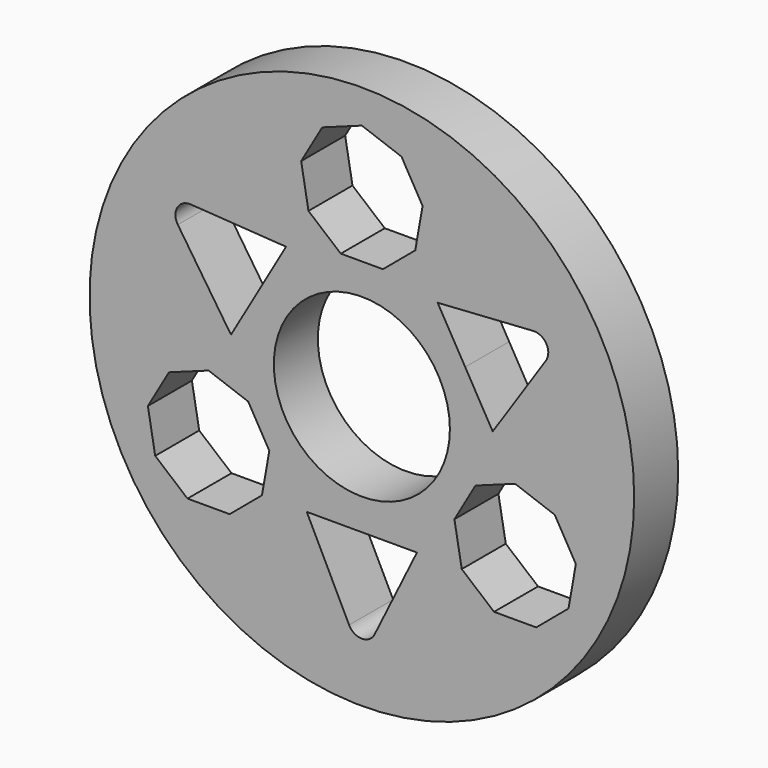
from build123d import *

# Parameters (mm, degrees)
F0_R     = 24.75
F0_R_2   = 8
F1_DEPTH = 2.5
F3_DEPTH = 5.001


with BuildPart() as f1:
    # F0 (on Front) → F1 (new body, symmetric)
    with BuildSketch(Plane.XZ):
        Circle(F0_R)
        Circle(F0_R_2, mode=Mode.SUBTRACT)
    extrude(amount=F1_DEPTH, both=True)

    # F2 (on face) → F3 (cut, through all)
    with BuildSketch(Plane.XZ.offset(2.5)):
        Polygon((-1.916116, 10.819963), (1.916116, 10.819963), (4.851777, 13.283275), (5.517237, 17.057287), (3.601121, 20.376098), (0, 21.686799), (-3.601121, 20.376098), (-5.517237, 17.057287), (-4.851777, 13.283275), align=None)
        Polygon((-19.446779, -7.069387), (-18.781318, -10.843399), (-15.845658, -13.306711), (-12.013425, -13.306711), (-9.077765, -10.843399), (-8.412305, -7.069387), (-10.328421, -3.750576), (-13.929542, -2.439876), (-17.530662, -3.750576), align=None)
        Polygon((15.845658, -13.306711), (18.781318, -10.843399), (19.446779, -7.069387), (17.530662, -3.750576), (13.929542, -2.439876), (10.328421, -3.750576), (8.412305, -7.069387), (9.077765, -10.843399), (12.013425, -13.306711), align=None)
        with BuildLine():
            ThreePointArc((-1.158459, -18.64352), (0, -19.363865), (1.158459, -18.64352))
            Line((1.158459, -18.64352), (5.005436, -10.843399))
            Line((5.005436, -10.843399), (0, -10.843399))
            Line((0, -10.843399), (-5.005436, -10.843399))
            Line((-5.005436, -10.843399), (-1.158459, -18.64352))
        make_face()
        with BuildLine():
            Line((9.390659, 5.4217), (11.893377, 1.086865))
            Line((11.893377, 1.086865), (16.724992, 8.318505))
            ThreePointArc((16.724992, 8.318505), (16.769599, 9.681932), (15.566532, 10.325015))
            Line((15.566532, 10.325015), (6.887941, 9.756534))
            Line((6.887941, 9.756534), (9.390659, 5.4217))
        make_face()
        with BuildLine():
            Line((-9.390659, 5.4217), (-6.887941, 9.756534))
            Line((-6.887941, 9.756534), (-15.566532, 10.325015))
            ThreePointArc((-15.566532, 10.325015), (-16.769599, 9.681932), (-16.724992, 8.318505))
            Line((-16.724992, 8.318505), (-11.893377, 1.086865))
            Line((-11.893377, 1.086865), (-9.390659, 5.4217))
        make_face()
    extrude(amount=-F3_DEPTH, mode=Mode.SUBTRACT)


solid = f1.part
